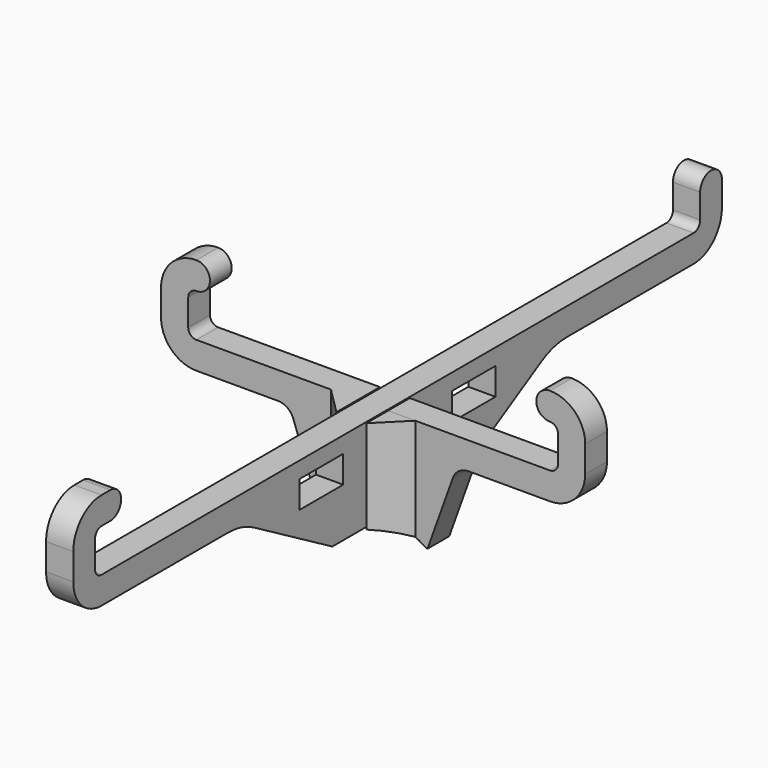
from build123d import *

# Parameters (mm, degrees)
SKETCH_W     = 10
SKETCH_H     = 5
PAD_DEPTH    = 2.5
PAD001_DEPTH = 2.5
PAD002_DEPTH = 20
POCKET_DEPTH = 10


with BuildPart() as vertical:
    # Sketch → Pad (new body, symmetric)
    with BuildSketch(Plane.YZ):
        with BuildLine():
            Line((74.55, 18.5), (74.55, 23))
            ThreePointArc((74.55, 23), (72.05, 25.5), (69.55, 23))
            Line((69.55, 18.5), (69.55, 23))
            ThreePointArc((68.05, 17), (69.11066, 17.43934), (69.55, 18.5))
            Line((-68.05, 17), (68.05, 17))
            ThreePointArc((-69.55, 18.5), (-69.11066, 17.43934), (-68.05, 17))
            Line((-69.55, 23.4), (-69.55, 18.5))
            ThreePointArc((-68.05, 24.9), (-69.11066, 24.46066), (-69.55, 23.4))
            Line((-68.05, 24.9), (-66.05, 24.9))
            ThreePointArc((-66.05, 24.9), (-63.549999, 27.4), (-66.049999, 29.9))
            Line((-66.049999, 29.9), (-68.05, 29.9))
            ThreePointArc((-68.05, 29.9), (-72.646194, 27.996194), (-74.55, 23.400001))
            Line((-74.55, 18.499999), (-74.55, 23.400001))
            ThreePointArc((-74.55, 18.499999), (-72.646194, 13.903806), (-68.05, 12))
            Line((-68.05, 12), (-38.957169, 12))
            ThreePointArc((-33, 10.392302), (-35.87202, 11.591016), (-38.957169, 12))
            Line((-15, 0), (-33, 10.392302))
            Line((-15, 0), (-2.75, 0))
            Line((-2.75, 0), (-2.75, 8.7))
            Line((-2.75, 8.7), (2.75, 8.7))
            Line((2.75, 8.7), (2.75, 0))
            Line((2.75, 0), (15, 0))
            Line((15, 0), (33, 10.392302))
            ThreePointArc((38.957169, 12), (35.87202, 11.591016), (33, 10.392302))
            Line((38.957169, 12), (68.05, 12))
            ThreePointArc((68.05, 12), (72.646194, 13.903806), (74.55, 18.5))
        make_face()
        with Locations((-17.5, 11.5)):
            Rectangle(SKETCH_W, SKETCH_H, mode=Mode.SUBTRACT)
        with Locations((17.5, 11.5)):
            Rectangle(SKETCH_W, SKETCH_H, mode=Mode.SUBTRACT)
    extrude(amount=PAD_DEPTH, both=True)


with BuildPart() as fusion:
    # Sketch001 → Pad001 (new body, symmetric)
    with BuildSketch(Plane.XZ):
        with BuildLine():
            Line((17.5, 12.000015), (32.499991, 12))
            ThreePointArc((32.499991, 12), (37.096192, 13.903804), (39, 18.500003))
            Line((39, 23.400026), (39, 18.500003))
            ThreePointArc((39, 23.400026), (37.096194, 27.996223), (32.499998, 29.900029))
            ThreePointArc((32.499998, 29.900029), (29.999998, 27.400029), (32.499998, 24.900029))
            ThreePointArc((34, 23.400026), (33.56066, 24.460689), (32.499998, 24.900029))
            Line((34, 18.500003), (34, 23.400026))
            ThreePointArc((32.499998, 17), (33.56066, 17.43934), (34, 18.500003))
            Line((2.75, 17), (32.499998, 17))
            Line((2.75, 8.3), (2.75, 17))
            Line((-2.75, 8.3), (2.75, 8.3))
            Line((-2.75, 17.000015), (-2.75, 8.3))
            Line((-32.5, 17.000015), (-2.75, 17.000015))
            ThreePointArc((-34, 18.500003), (-33.560656, 17.439351), (-32.5, 17.000015))
            Line((-34, 18.500003), (-34, 23.400026))
            ThreePointArc((-32.499997, 24.900015), (-33.560655, 24.46068), (-34, 23.400026))
            ThreePointArc((-32.499997, 24.900015), (-29.999998, 27.400015), (-32.499998, 29.900015))
            ThreePointArc((-32.499998, 29.900015), (-37.096189, 27.996214), (-39, 23.400026))
            Line((-39, 23.400026), (-39, 18.500003))
            ThreePointArc((-39, 18.500003), (-37.096189, 13.903816), (-32.499998, 12.000015))
            Line((-32.499998, 12.000015), (-17.5, 12.000015))
            ThreePointArc((-14.676751, 10.014544), (-15.774251, 11.45395), (-17.5, 12.000015))
            Line((-14.676751, 10.014544), (-10, -3))
            Line((-10, -3), (10, -3))
            Line((10, -3), (14.676748, 10.014543))
            ThreePointArc((17.5, 12.000015), (15.77425, 11.45395), (14.676748, 10.014543))
        make_face()
    extrude(amount=PAD001_DEPTH, both=True)

    # Sketch002 → Pad002 (new body)
    with BuildSketch(Plane(origin=(0, 0, 17.000015), x_dir=(-1, 0, 0), z_dir=(0, 0, 1))):
        Polygon((-7.75, 2.5), (-2.75, 7.5), (-2.75, 2.5), align=None)
        Polygon((2.75, 7.5), (2.75, 2.5), (7.75, 2.5), align=None)
    extrude(amount=-PAD002_DEPTH)

    # Sketch003 → Pocket (cut)
    with BuildSketch(Plane(origin=(0, 2.5, 0), x_dir=(1, 0, 0), z_dir=(0, 1, 0))):
        with BuildLine():
            ThreePointArc((-10, 3.138593), (0, 0), (10, 3.138593))
            Line((-10, 3.138593), (10, 3.138593))
        make_face()
    extrude(amount=-POCKET_DEPTH, mode=Mode.SUBTRACT)

    # Fusion: union Vertical
    add(vertical.part)


solid = fusion.part
